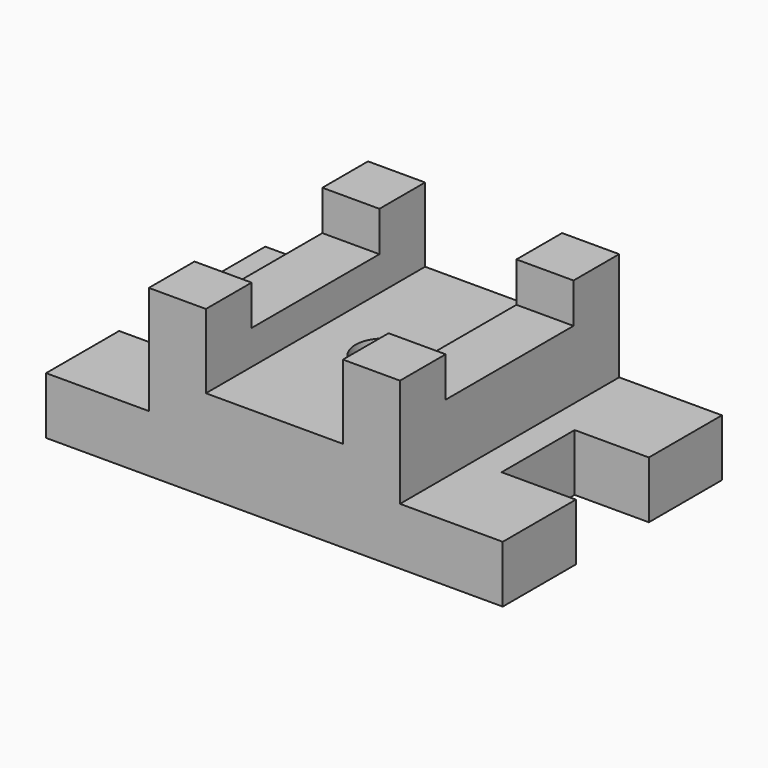
from build123d import *

# Parameters (mm, degrees)
F1_DEPTH = 31.75
F0_W     = 31.75
F0_H     = 88.9
F2_DEPTH = 69.85
F0_H_2   = 31.75
F3_DEPTH = 92.075
F0_R     = 15.875
F4_DEPTH = 50.8


with BuildPart() as f1:
    # F0 (on Top) → F1 (new body)
    with BuildSketch(Plane.XY):
        Polygon((-69.85, 76.2), (-127, 76.2), (-127, 25.4), (-85.725, 25.4), (-85.725, -25.4), (-127, -25.4), (-127, -76.2), (-69.85, -76.2), (-69.85, -44.45), (-69.85, 44.45), align=None)
        Polygon((127, 76.2), (69.85, 76.2), (69.85, 44.45), (69.85, -44.45), (69.85, -76.2), (127, -76.2), (127, -25.4), (85.725, -25.4), (85.725, 25.4), (127, 25.4), align=None)
    extrude(amount=F1_DEPTH)

    # F0 (on Top) → F2 (join)
    with BuildSketch(Plane.XY):
        with Locations((-53.975, 0)):
            Rectangle(F0_W, F0_H)
        with Locations((53.975, 0)):
            Rectangle(F0_W, F0_H)
    extrude(amount=F2_DEPTH)

    # F0 (on Top) → F3 (join)
    with BuildSketch(Plane.XY):
        with Locations((-53.975, 60.325)):
            Rectangle(F0_W, F0_H_2)
        with Locations((-53.975, -60.325)):
            Rectangle(F0_W, F0_H_2)
        with Locations((53.975, -60.325)):
            Rectangle(F0_W, F0_H_2)
        with Locations((53.975, 60.325)):
            Rectangle(F0_W, F0_H_2)
    extrude(amount=F3_DEPTH)

    # F0 (on Top) → F4 (join)
    with BuildSketch(Plane.XY):
        Polygon((38.1, 76.2), (-38.1, 76.2), (-38.1, 44.45), (-38.1, -44.45), (-38.1, -76.2), (38.1, -76.2), (38.1, -44.45), (38.1, 44.45), align=None)
        Circle(F0_R, mode=Mode.SUBTRACT)
    extrude(amount=F4_DEPTH)


solid = f1.part
